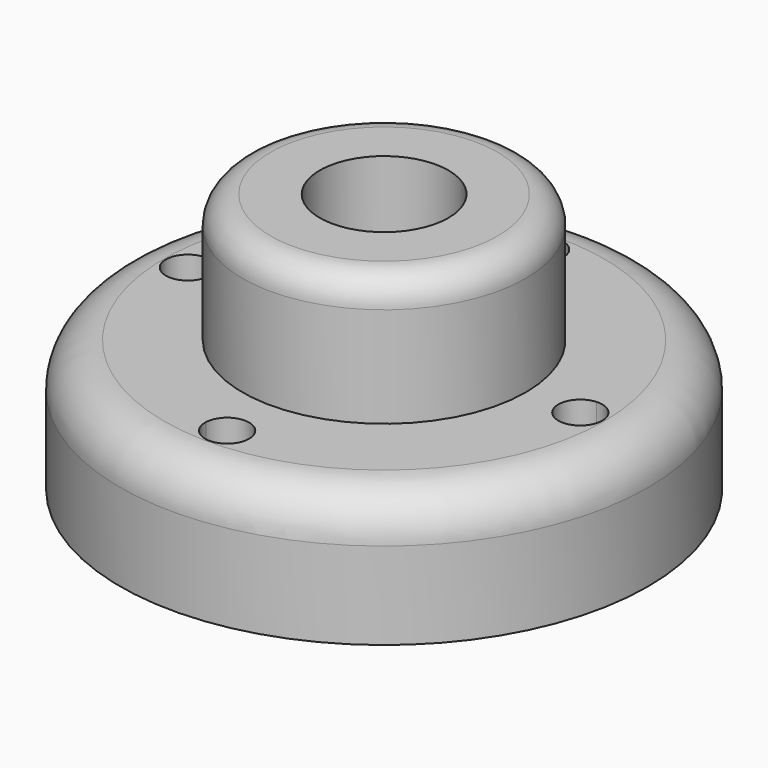
from build123d import *

# Parameters (mm, degrees)
F0_R     = 30
F0_R_2   = 16.1
F1_DEPTH = 14.9
F0_R_3   = 7.315
F2_DEPTH = 29.5
F3_R     = 5
F4_R     = 3.2


with BuildPart() as f1:
    # F0 (on Top) → F1 (new body)
    with BuildSketch(Plane.XY):
        Circle(F0_R)
        with BuildLine():
            ThreePointArc((-22.159865, -2.496069), (-24.8, 0), (-22.159865, 2.496069))
            ThreePointArc((-22.159865, 2.496069), (-15.768481, 15.768481), (-2.496069, 22.159865))
            ThreePointArc((-2.496069, 22.159865), (-0.070095, 24.799017), (2.5, 22.3))
            ThreePointArc((2.5, 22.3), (2.499017, 22.229905), (2.496069, 22.159865))
            ThreePointArc((2.496069, 22.159865), (15.768481, 15.768481), (22.159865, 2.496069))
            ThreePointArc((22.159865, 2.496069), (24.017507, 1.816636), (24.8, 0))
            ThreePointArc((24.8, 0), (24.017507, -1.816636), (22.159865, -2.496069))
            ThreePointArc((22.159865, -2.496069), (15.768481, -15.768481), (2.496069, -22.159865))
            ThreePointArc((2.496069, -22.159865), (2.499017, -22.229905), (2.5, -22.3))
            ThreePointArc((2.5, -22.3), (-0.070095, -24.799017), (-2.496069, -22.159865))
            ThreePointArc((-2.496069, -22.159865), (-15.768481, -15.768481), (-22.159865, -2.496069))
        make_face(mode=Mode.SUBTRACT)
        with BuildLine():
            ThreePointArc((-22.159865, 2.496069), (-20.483364, 1.717507), (-19.8, 0))
            ThreePointArc((-19.8, 0), (-20.483364, -1.717507), (-22.159865, -2.496069))
            ThreePointArc((-22.159865, -2.496069), (-15.768481, -15.768481), (-2.496069, -22.159865))
            ThreePointArc((-2.496069, -22.159865), (0, -19.8), (2.496069, -22.159865))
            ThreePointArc((2.496069, -22.159865), (15.768481, -15.768481), (22.159865, -2.496069))
            ThreePointArc((22.159865, -2.496069), (19.8, 0), (22.159865, 2.496069))
            ThreePointArc((22.159865, 2.496069), (15.768481, 15.768481), (2.496069, 22.159865))
            ThreePointArc((2.496069, 22.159865), (0, 19.8), (-2.496069, 22.159865))
            ThreePointArc((-2.496069, 22.159865), (-15.768481, 15.768481), (-22.159865, 2.496069))
        make_face()
        Circle(F0_R_2, mode=Mode.SUBTRACT)
    extrude(amount=F1_DEPTH)

    # F0 (on Top) → F2 (join)
    with BuildSketch(Plane.XY):
        Circle(F0_R_2)
        Circle(F0_R_3, mode=Mode.SUBTRACT)
    extrude(amount=F2_DEPTH)

    # F3
    f3_edges = [f1.edges().sort_by_distance(p)[0] for p in [
        (-30, 0, 14.9),
    ]]
    fillet(f3_edges, radius=F3_R)

    # F4
    f4_edges = [f1.edges().sort_by_distance(p)[0] for p in [
        (-16.1, 0, 29.5),
    ]]
    fillet(f4_edges, radius=F4_R)


solid = f1.part
